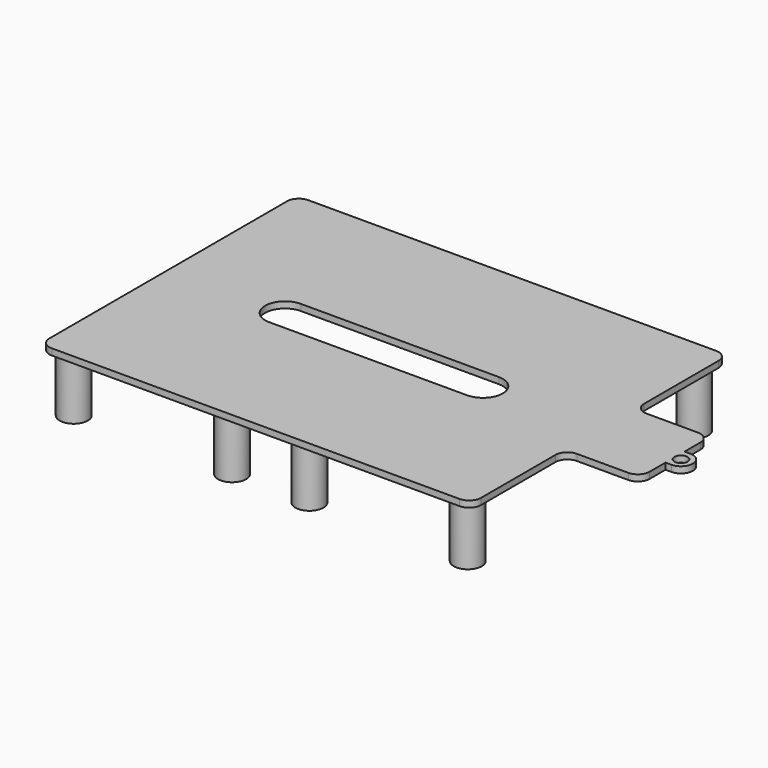
from build123d import *

# Parameters (mm, degrees)
SKETCH007_R             = 1.65
PAD005_DEPTH            = 1.6
SKETCH008_R             = 3.55
PAD006_DEPTH            = 16.3
SKETCH009_R             = 1.95
POCKET002_DEPTH         = 12
POCKET003_DEPTH         = 1.6
BODY002_PLACEMENT_ANGLE = 180


with BuildPart() as part:
    # Sketch007 → Pad005 (new body)
    with BuildSketch(Plane.XY):
        with BuildLine():
            Line((-51.5, 40.5), (51.5, 40.5))
            ThreePointArc((54.5, 37.5), (53.62132, 39.62132), (51.5, 40.5))
            Line((54.5, 37.5), (54.5, 14))
            ThreePointArc((54.5, 14), (55.37868, 11.87868), (57.5, 11))
            Line((57.5, 11), (70.5, 11))
            ThreePointArc((73.5, 8), (72.62132, 10.12132), (70.5, 11))
            Line((73.5, 8), (73.5, 3))
            Line((73.5, 3), (75, 3))
            ThreePointArc((75, -3), (78, 0), (75, 3))
            Line((73.5, -3), (75, -3))
            Line((73.5, -3), (73.5, -8))
            ThreePointArc((70.5, -11), (72.62132, -10.12132), (73.5, -8))
            Line((70.5, -11), (57.5, -11))
            ThreePointArc((57.5, -11), (55.37868, -11.87868), (54.5, -14))
            Line((54.5, -14), (54.5, -37.5))
            ThreePointArc((51.5, -40.5), (53.62132, -39.62132), (54.5, -37.5))
            Line((51.5, -40.5), (-51.5, -40.5))
            ThreePointArc((-54.5, -37.5), (-53.62132, -39.62132), (-51.5, -40.5))
            Line((-54.5, -37.5), (-54.5, 37.5))
            ThreePointArc((-51.5, 40.5), (-53.62132, 39.62132), (-54.5, 37.5))
        make_face()
        with Locations((75, 0)):
            Circle(SKETCH007_R, mode=Mode.SUBTRACT)
    extrude(amount=PAD005_DEPTH)

    # Sketch008 → Pad006 (join)
    with BuildSketch(Plane.XY):
        with Locations((-49.75, 35.75)):
            Circle(SKETCH008_R)
        with Locations((-9.75, 35.75)):
            Circle(SKETCH008_R)
        with Locations((9.75, 35.75)):
            Circle(SKETCH008_R)
        with Locations((49.75, 35.75)):
            Circle(SKETCH008_R)
        with Locations((49.75, -35.75)):
            Circle(SKETCH008_R)
        with Locations((9.75, -35.75)):
            Circle(SKETCH008_R)
        with Locations((-9.75, -35.75)):
            Circle(SKETCH008_R)
        with Locations((-49.75, -35.75)):
            Circle(SKETCH008_R)
    extrude(amount=PAD006_DEPTH)

    # Sketch009 (on DatumPlane) → Pocket002 (cut)
    with BuildSketch(Plane.XY.offset(16.3)):
        with Locations((-49.75, 35.75)):
            Circle(SKETCH009_R)
        with Locations((-9.75, 35.75)):
            Circle(SKETCH009_R)
        with Locations((9.75, 35.75)):
            Circle(SKETCH009_R)
        with Locations((49.75, 35.75)):
            Circle(SKETCH009_R)
        with Locations((-49.75, -35.75)):
            Circle(SKETCH009_R)
        with Locations((-9.75, -35.75)):
            Circle(SKETCH009_R)
        with Locations((9.75, -35.75)):
            Circle(SKETCH009_R)
        with Locations((49.75, -35.75)):
            Circle(SKETCH009_R)
    extrude(amount=-POCKET002_DEPTH, mode=Mode.SUBTRACT)

    # Sketch011 → Pocket003 (cut)
    with BuildSketch(Plane.XY):
        with BuildLine():
            ThreePointArc((-25, 5), (-30, 0), (-25, -5))
            Line((-25, -5), (25, -5))
            ThreePointArc((25, -5), (30, 0), (25, 5))
            Line((25, 5), (-25, 5))
        make_face()
    extrude(amount=POCKET003_DEPTH, mode=Mode.SUBTRACT)


with BuildPart() as part_1:
    # Body002 placement: moved
    add(part.part.moved(Location((0, 0, 38))).rotate(Axis((0, 0, 38), (1, 0, 0)), BODY002_PLACEMENT_ANGLE))


solid = part_1.part
